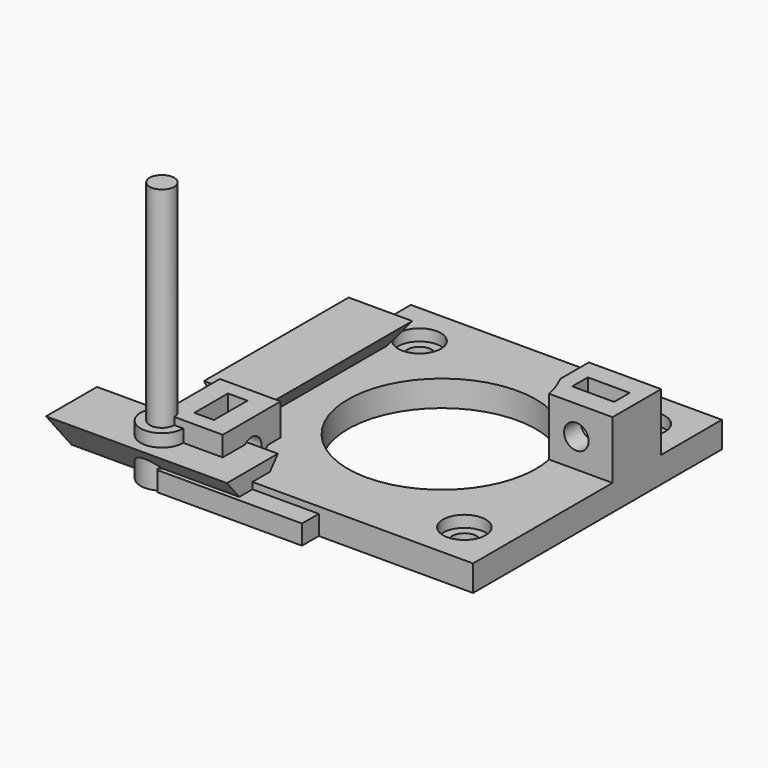
from build123d import *

# Parameters (mm, degrees)
CYLINDER_R                   = 2.95
CYLINDER_DEPTH               = 7
CYLINDER001_R                = 1.7
CYLINDER001_DEPTH            = 30
PAD002_DEPTH                 = 2.7
PAD039_DEPTH                 = 12.5
CLONE292_PITCH_ANGLE         = -90
CLONE291_PITCH_ANGLE         = 90
BOX255_W                     = 8.4
BOX255_H                     = 10
BOX255_DEPTH                 = 8
CLONE287_ROLL_ANGLE          = 180
CLONE287_PLACEMENT_ANGLE     = -90
CLONE289_ROLL_ANGLE          = 180
CLONE289_PLACEMENT_ANGLE     = -90
CLONE286_ROLL_ANGLE          = 180
CLONE286_PLACEMENT_ANGLE     = -90
CLONE288_ROLL_ANGLE          = 180
CLONE288_PLACEMENT_ANGLE     = -90
CYLINDER1027_R               = 13
CYLINDER1027_DEPTH           = 15
CYLINDER1027_PLACEMENT_ANGLE = -90
CLONE290_PLACEMENT_ANGLE     = -90
CLONE293_PLACEMENT_ANGLE     = -90
BOX254_W                     = 43
BOX254_H                     = 43
BOX254_DEPTH                 = 3.6
BOX254_PLACEMENT_ANGLE       = -90


with BuildPart() as m3bolthead:
    # Cylinder → Cylinder (new body)
    with BuildSketch(Plane.XY):
        Circle(CYLINDER_R)
    extrude(amount=CYLINDER_DEPTH)


with BuildPart() as m3bolt:
    # Cylinder001 → Cylinder001 (new body)
    with BuildSketch(Plane.XY.offset(6)):
        Circle(CYLINDER001_R)
    extrude(amount=CYLINDER001_DEPTH)

    # Fusion: union M3BoltHead
    add(m3bolthead.part)


with BuildPart() as m3nuthousing:
    # Sketch003 → Pad002 (new body)
    with BuildSketch(Plane.XY):
        Polygon((0, 0), (1.674316, 2.9), (21.674316, 2.9), (21.674316, -2.9), (1.674316, -2.9), align=None)
    extrude(amount=PAD002_DEPTH)


with BuildPart() as obj1:
    # Sketch056 → Pad039 (new body, symmetric)
    with BuildSketch(Plane.YZ):
        Polygon((-4.4, 5.243716), (4.4, 5.243716), (0, 0), align=None)
    extrude(amount=PAD039_DEPTH, both=True)


with BuildPart() as clone_of_m3nuthousing026:
    # Clone292 base: copy of M3NutHousing
    add(m3nuthousing.part)


with BuildPart() as clone_of_m3nuthousing026_1:
    # Clone292 pitch: moved
    add(clone_of_m3nuthousing026.part.rotate(Axis((0, 0, 0), (0, 1, 0)), CLONE292_PITCH_ANGLE))


with BuildPart() as clone_of_m3nuthousing026_2:
    # Clone292 placement: moved
    add(clone_of_m3nuthousing026_1.part.moved(Location((5.5, 5, 0.5))))


with BuildPart() as fusion101:
    # Clone291 base: copy of M3Bolt
    add(m3bolt.part)


with BuildPart() as fusion101_1:
    # Clone291 pitch: moved
    add(fusion101.part.rotate(Axis((0, 0, 0), (0, 1, 0)), CLONE291_PITCH_ANGLE))


with BuildPart() as fusion101_2:
    # Clone291 placement: moved
    add(fusion101_1.part.moved(Location((-14.5, 5, 4))))

    # Fusion101: union Clone of M3NutHousing026
    add(clone_of_m3nuthousing026_2.part)


with BuildPart() as obj2:
    # Box255 → Box255 (new body)
    with BuildSketch(Plane.XY):
        with Locations((4.2, 5)):
            Rectangle(BOX255_W, BOX255_H)
    extrude(amount=BOX255_DEPTH)

    # Cut087: cut Fusion101
    add(fusion101_2.part, mode=Mode.SUBTRACT)


with BuildPart() as clone_of_m3bolt100:
    # Clone287 base: copy of M3Bolt
    add(m3bolt.part)


with BuildPart() as clone_of_m3bolt100_1:
    # Clone287 roll: moved
    add(clone_of_m3bolt100.part.rotate(Axis((0, 0, 0), (1, 0, 0)), CLONE287_ROLL_ANGLE))


with BuildPart() as clone_of_m3bolt100_2:
    # Clone287 placement: moved
    add(clone_of_m3bolt100_1.part.moved(Location((6, 37, 9))).rotate(Axis((6, 37, 9), (0, 0, 1)), CLONE287_PLACEMENT_ANGLE))


with BuildPart() as clone_of_m3bolt102:
    # Clone289 base: copy of M3Bolt
    add(m3bolt.part)


with BuildPart() as clone_of_m3bolt102_1:
    # Clone289 roll: moved
    add(clone_of_m3bolt102.part.rotate(Axis((0, 0, 0), (1, 0, 0)), CLONE289_ROLL_ANGLE))


with BuildPart() as clone_of_m3bolt102_2:
    # Clone289 placement: moved
    add(clone_of_m3bolt102_1.part.moved(Location((37, 6, 9))).rotate(Axis((37, 6, 9), (0, 0, 1)), CLONE289_PLACEMENT_ANGLE))


with BuildPart() as clone_of_m3bolt099:
    # Clone286 base: copy of M3Bolt
    add(m3bolt.part)


with BuildPart() as clone_of_m3bolt099_1:
    # Clone286 roll: moved
    add(clone_of_m3bolt099.part.rotate(Axis((0, 0, 0), (1, 0, 0)), CLONE286_ROLL_ANGLE))


with BuildPart() as clone_of_m3bolt099_2:
    # Clone286 placement: moved
    add(clone_of_m3bolt099_1.part.moved(Location((6, 6, 9))).rotate(Axis((6, 6, 9), (0, 0, 1)), CLONE286_PLACEMENT_ANGLE))


with BuildPart() as clone_of_m3bolt101:
    # Clone288 base: copy of M3Bolt
    add(m3bolt.part)


with BuildPart() as clone_of_m3bolt101_1:
    # Clone288 roll: moved
    add(clone_of_m3bolt101.part.rotate(Axis((0, 0, 0), (1, 0, 0)), CLONE288_ROLL_ANGLE))


with BuildPart() as clone_of_m3bolt101_2:
    # Clone288 placement: moved
    add(clone_of_m3bolt101_1.part.moved(Location((37, 37, 9))).rotate(Axis((37, 37, 9), (0, 0, 1)), CLONE288_PLACEMENT_ANGLE))


with BuildPart() as fusion106:
    # Cylinder1027 → Cylinder1027 (new body)
    with BuildSketch(Plane.XY):
        Circle(CYLINDER1027_R)
    extrude(amount=CYLINDER1027_DEPTH)


with BuildPart() as fusion106_1:
    # Cylinder1027 placement: moved
    add(fusion106.part.moved(Location((21.5, 21.5, 0))).rotate(Axis((21.5, 21.5, 0), (0, 0, 1)), CYLINDER1027_PLACEMENT_ANGLE))

    # Fusion106: union Clone of M3Bolt100, Clone of M3Bolt102, Clone of M3Bolt099, Clone of M3Bolt101
    add(clone_of_m3bolt100_2.part)
    add(clone_of_m3bolt102_2.part)
    add(clone_of_m3bolt099_2.part)
    add(clone_of_m3bolt101_2.part)


with BuildPart() as obj3:
    # Clone290 base: copy of obj1
    add(obj1.part)


with BuildPart() as obj3_1:
    # Clone290 placement: moved
    add(obj3.part.moved(Location((3, 21.5, 2.456284))).rotate(Axis((3, 21.5, 2.456284), (0, 0, 1)), CLONE290_PLACEMENT_ANGLE))


with BuildPart() as obj4:
    # Clone293 base: copy of obj2
    add(obj2.part)


with BuildPart() as obj4_1:
    # Clone293 placement: moved
    add(obj4.part.moved(Location((33, 32.5, 3.6))).rotate(Axis((33, 32.5, 3.6), (0, 0, 1)), CLONE293_PLACEMENT_ANGLE))


with BuildPart() as obj5:
    # Box254 → Box254 (new body)
    with BuildSketch(Plane.XY):
        with Locations((21.5, 21.5)):
            Rectangle(BOX254_W, BOX254_H)
    extrude(amount=BOX254_DEPTH)


with BuildPart() as obj5_1:
    # Box254 placement: moved
    add(obj5.part.moved(Location((0, 43, 0))).rotate(Axis((0, 43, 0), (0, 0, 1)), BOX254_PLACEMENT_ANGLE))

    # Fusion105: union obj3, obj4
    add(obj3_1.part)
    add(obj4_1.part)

    # Cut089: cut Fusion106
    add(fusion106_1.part, mode=Mode.SUBTRACT)


solid = Compound([m3bolt.part, m3nuthousing.part, obj1.part, obj2.part, obj5_1.part])
